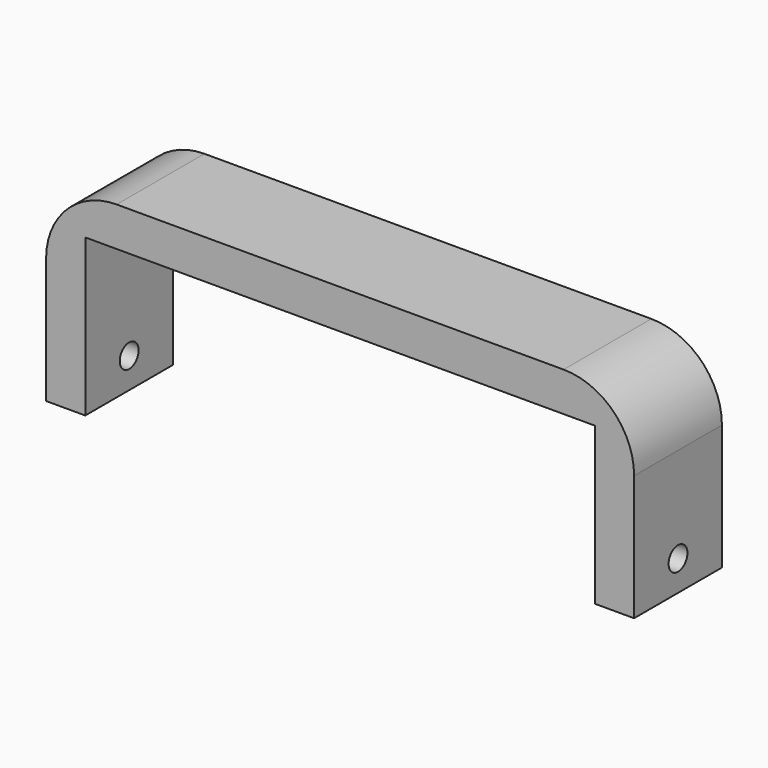
from build123d import *

# Parameters (mm, degrees)
F1_DEPTH = 35.56
F2_R     = 22.86
F3_R     = 3.81
F4_DEPTH = 190.501


with BuildPart() as f1:
    # F0 (on Front) → F1 (new body)
    with BuildSketch(Plane.XZ):
        Polygon((0, 63.5), (0, 0), (12.7, 0), (12.7, 50.8), (177.8, 50.8), (177.8, 0), (190.5, 0), (190.5, 63.5), align=None)
    extrude(amount=F1_DEPTH)

    # F2
    f2_edges = [f1.edges().sort_by_distance(p)[0] for p in [
        (0, -17.78, 63.5),
        (190.5, -17.78, 63.5),
    ]]
    fillet(f2_edges, radius=F2_R)

    # F3 (on face) → F4 (cut, through all)
    with BuildSketch(Plane.YZ.offset(190.5)):
        with Locations((-17.78, 9.841981)):
            Circle(F3_R)
    extrude(amount=-F4_DEPTH, mode=Mode.SUBTRACT)


solid = f1.part
